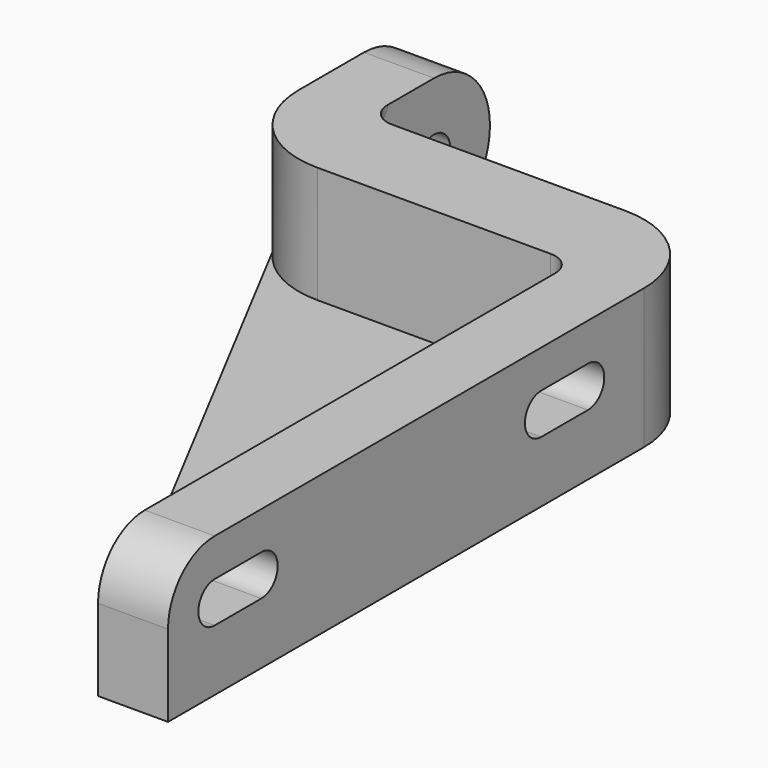
from build123d import *

# Parameters (mm, degrees)
F1_DEPTH = 12
F2_DEPTH = 2
F5_DEPTH = 6
F6_R     = 1.75
F7_DEPTH = 6
F9_DEPTH = 30.001


with BuildPart() as f1:
    # F0 (on Top) → F1 (new body)
    with BuildSketch(Plane.XY):
        with BuildLine():
            Line((-6, 0), (0, 0))
            Line((0, 0), (0, 51))
            ThreePointArc((0, 51), (-2.343146, 56.656854), (-8, 59))
            Line((-8, 59), (-28, 59))
            ThreePointArc((-28, 59), (-29.414214, 59.585786), (-30, 61))
            Line((-30, 61), (-30, 72))
            Line((-30, 72), (-36, 72))
            Line((-36, 72), (-36, 59))
            ThreePointArc((-36, 59), (-35.766593, 57.081659), (-35.079992, 55.275257))
            ThreePointArc((-35.079992, 55.275257), (-32.135339, 52.151718), (-28, 51))
            Line((-28, 51), (-8, 51))
            ThreePointArc((-8, 51), (-6.585786, 50.414214), (-6, 49))
            Line((-6, 49), (-6, 0))
        make_face()
    extrude(amount=F1_DEPTH)

    # F0 (on Top) → F2 (join)
    with BuildSketch(Plane.XY):
        with BuildLine():
            Line((-35.079992, 55.275257), (-6, 0))
            Line((-6, 0), (-6, 49))
            ThreePointArc((-6, 49), (-6.585786, 50.414214), (-8, 51))
            Line((-8, 51), (-28, 51))
            ThreePointArc((-28, 51), (-32.135339, 52.151718), (-35.079992, 55.275257))
        make_face()
    extrude(amount=F2_DEPTH)

    # F4 (on face) → F5 (cut, through all)
    with BuildSketch(Plane(origin=(-6, 0, 0), x_dir=(0, -1, 0), z_dir=(-1, 0, 0))):
        with BuildLine():
            ThreePointArc((-5, 12), (-1.464466, 10.535534), (0, 7))
            Line((0, 7), (0, 12))
            Line((0, 12), (-5, 12))
        make_face()
        with BuildLine():
            ThreePointArc((-5, 5.25), (-3.25, 7), (-5, 8.75))
            Line((-5, 8.75), (-10, 8.75))
            ThreePointArc((-10, 8.75), (-11.75, 7), (-10, 5.25))
            Line((-10, 5.25), (-5, 5.25))
        make_face()
        with BuildLine():
            ThreePointArc((-40, 5.25), (-38.25, 7), (-40, 8.75))
            Line((-40, 8.75), (-45, 8.75))
            ThreePointArc((-45, 8.75), (-46.75, 7), (-45, 5.25))
            Line((-45, 5.25), (-40, 5.25))
        make_face()
    extrude(amount=-F5_DEPTH, mode=Mode.SUBTRACT)

    # F6 (on face) → F7 (cut, through all)
    with BuildSketch(Plane(origin=(-36, 0, 0), x_dir=(0, -1, 0), z_dir=(-1, 0, 0))):
        with Locations((-66, 6)):
            Circle(F6_R)
        with BuildLine():
            ThreePointArc((-72, 6), (-70.242641, 10.242641), (-66, 12))
            Line((-66, 12), (-72, 12))
            Line((-72, 12), (-72, 6))
        make_face()
        with BuildLine():
            ThreePointArc((-66, 0), (-70.242641, 1.757359), (-72, 6))
            Line((-72, 6), (-72, 0))
            Line((-72, 0), (-66, 0))
        make_face()
    extrude(amount=-F7_DEPTH, mode=Mode.SUBTRACT)

    # F8 (on face) → F9 (cut, through all)
    with BuildSketch(Plane.YZ.offset(-30)):
        Polygon((66, 16.7), (57.8, 8.5), (57.8, 3.5), (66, -4.7), align=None)
    extrude(amount=F9_DEPTH, mode=Mode.SUBTRACT)


solid = f1.part
